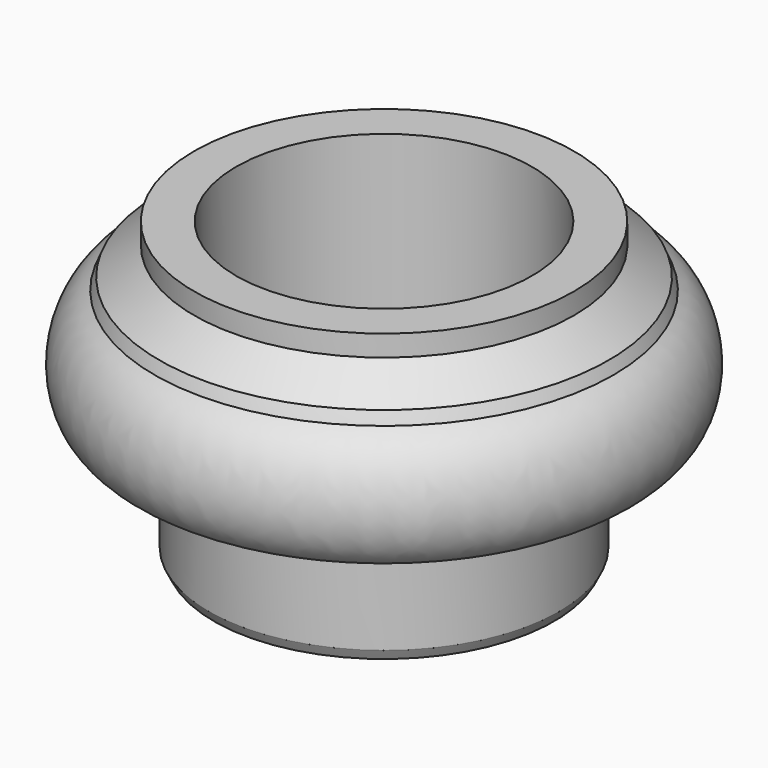
from build123d import *

# Parameters (mm, degrees)
F2_SIZE2 = 0.5
F2_SIZE  = 1


with BuildPart() as f1:
    # F0 (on Front) → F1 (revolve)
    with BuildSketch(Plane.XZ):
        with BuildLine():
            Line((-16.95, 11.0582131892), (-16.95, 0))
            Line((-16.95, 0), (-14.3, 0))
            Line((-14.3, 0), (-14.3, 28.7))
            Line((-14.3, 28.7), (-18.3687228709, 28.7))
            Line((-18.3687228709, 28.7), (-18.3687228709, 26.6580078751))
            Line((-18.3687228709, 26.6580078751), (-21.7402353883, 23.9487569779))
            Line((-21.7402353883, 23.9487569779), (-22.1896376461, 22.8297878057))
            add(Edge.make_bspline(
                [(-22.1896376461, 22.8297878057), (-26.9013587385, 20.3616116196), (-26.7662014812, 11.0357832164), (-20.8725556731, 11.0582131892)],
                knots=[0, 0, 0, 0, 11.8450273902, 11.8450273902, 11.8450273902, 11.8450273902], degree=3))
            Line((-20.8725556731, 11.0582131892), (-16.95, 11.0582131892))
        make_face()
    revolve(axis=Axis((0, 0, 14.35), (0, 0, 1)))

    # F2
    f2_edges = [f1.edges().sort_by_distance(p)[0] for p in [
        (16.95, 0, 0),
    ]]
    f2_side = f1.faces().sort_by_distance((16.95, 0, 5.529107))[0]
    chamfer(f2_edges, length=F2_SIZE, length2=F2_SIZE2, reference=f2_side)


solid = f1.part
